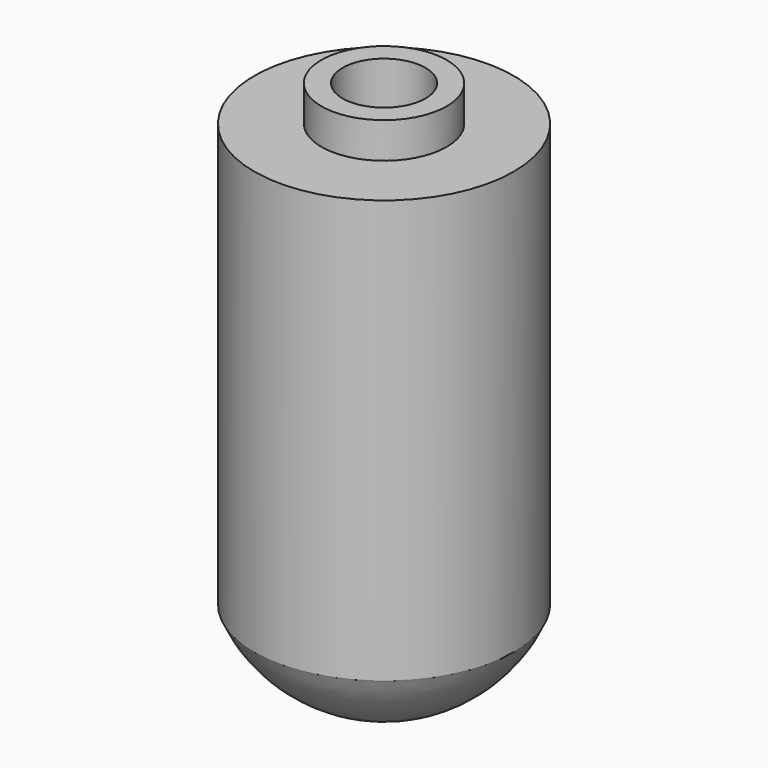
from build123d import *


with BuildPart() as f1:
    # F0 (on Front) → F1 (revolve)
    with BuildSketch(Plane.XZ):
        with BuildLine():
            Line((13.286673, 0), (0, 0))
            Line((0, 0), (0, -25.584204))
            ThreePointArc((0, -25.584204), (14.101099, -21.347377), (23.531822, -10.04016))
            Line((23.531822, -10.04016), (23.531822, 66.672839))
            Line((23.531822, 66.672839), (11.365706, 66.672839))
            Line((11.365706, 66.672839), (11.365706, 73.155217))
            Line((11.365706, 73.155217), (7.523784, 73.155217))
            Line((7.523784, 73.155217), (7.523784, 63.322656))
            Line((7.523784, 63.322656), (13.286673, 60.411584))
            Line((13.286673, 60.411584), (13.286673, 0))
        make_face()
    revolve(axis=Axis((0, 0, -12.792102), (0, 0, 1)))


solid = f1.part
